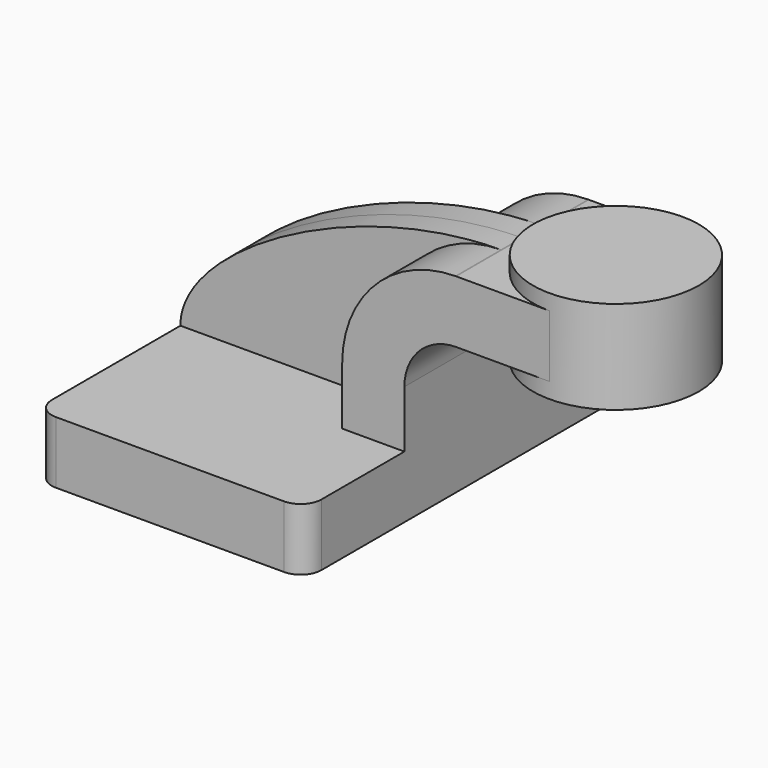
from build123d import *

# Parameters (mm, degrees)
F1_DEPTH = 63.5
F0_W     = 25.3999955219
F0_H     = 19.05
F2_DEPTH = 25.4
F3_DEPTH = 7.9375
F5_R     = 6.35


with BuildPart() as f1:
    # F0 (on Front) → F1 (new body, symmetric)
    with BuildSketch(Plane.XZ):
        Polygon((-41.275, -9.525), (41.275, -9.525), (41.275, 9.525), (22.225, 9.525), (-41.275, 9.525), align=None)
    extrude(amount=F1_DEPTH, both=True)

    # F0 (on Front) → F2 (join, symmetric)
    with BuildSketch(Plane.XZ):
        with BuildLine():
            Line((22.225, 9.525), (41.275, 9.525))
            Line((41.275, 9.525), (41.275, 27.0002))
            ThreePointArc((41.275, 27.0002), (45.9246798487, 38.2255201513), (57.15, 42.8752))
            Line((57.15, 42.8752), (60.3250044781, 42.8752))
            Line((60.3250044781, 42.8752), (60.3250044781, 61.9252))
            Line((60.3250044781, 61.9252), (57.15, 61.9252))
            add(Edge.make_bspline(
                [(56.894856977, 61.9242680196), (56.9799269157, 61.9246804993), (57.064974715, 61.9249912383), (57.15, 61.9252)],
                knots=[111.298347533, 111.298347533, 111.298347533, 111.298347533, 111.5045361635, 111.5045361635, 111.5045361635, 111.5045361635], degree=3))
            ThreePointArc((56.894856977, 61.9242680196), (32.3642531374, 51.6055322973), (22.225, 27.0002))
            Line((22.225, 27.0002), (22.225, 9.525))
        make_face()
        with Locations((73.025002239, 52.4002)):
            Rectangle(F0_W, F0_H)
    extrude(amount=F2_DEPTH, both=True)

    # F0 (on Front) → F3 (join, symmetric)
    with BuildSketch(Plane.XZ):
        with BuildLine():
            add(Edge.make_bspline(
                [(-41.275, 9.525), (-41.3955935433, 31.8345558786), (10.9750427892, 61.7016160341), (56.894856977, 61.9242680196)],
                knots=[0, 0, 0, 0, 111.298347533, 111.298347533, 111.298347533, 111.298347533], degree=3))
            Line((-41.275, 9.525), (22.225, 9.525))
            Line((22.225, 9.525), (22.225, 27.0002))
            ThreePointArc((22.225, 27.0002), (32.3642531374, 51.6055322973), (56.894856977, 61.9242680196))
        make_face()
    extrude(amount=F3_DEPTH, both=True)

    # F5
    f5_edges = [f1.edges().sort_by_distance(p)[0] for p in [
        (-41.275, -63.5, 0),
        (41.275, -63.5, 0),
        (41.275, 63.5, 0),
        (-41.275, 63.5, 0),
    ]]
    fillet(f5_edges, radius=F5_R)


with BuildPart() as f4:
    # F0 (on Front) → F4 (revolve)
    with BuildSketch(Plane.XZ):
        Polygon((85.725, 61.9252), (85.725, 42.8752), (85.725, 38.1), (111.1249955219, 38.1), (111.1249955219, 66.675), (85.725, 66.675), align=None)
    revolve(axis=Axis((85.725, 0, 52.3875), (0, 0, 1)))


solid = Compound([f1.part, f4.part])
